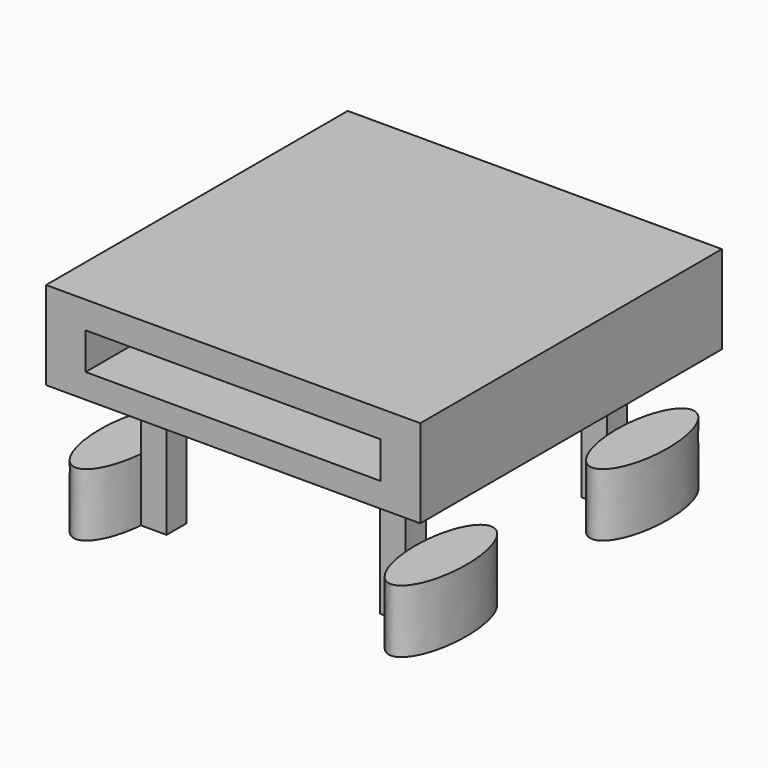
from build123d import *

# Parameters (mm, degrees)
F1_DEPTH  = 12.7
F2_DEPTH  = 25.4
F3_W      = 75.4542723298
F3_H      = 76.0345155845
F4_DEPTH  = 5.08
F5_W      = 75.4542723298
F5_H      = 76.0345155845
F5_W_2    = 62.7542723298
F5_H_2    = 63.3345155845
F6_DEPTH  = 12.7
F7_W      = 59.5092140138
F7_H      = 7.4030607939
F8_DEPTH  = 76.2
F9_W      = 42.9946966469
F9_H      = 19.0771184862
F10_DEPTH = 76.2


with BuildPart() as f1:
    # F0 (on Top) → F1 (new body)
    with BuildSketch(Plane.XY):
        with BuildLine():
            add(Edge.make_bspline(
                [(-26.6673212629, 27.94), (-28.8665013823, 53.9696522782), (-35.7714125826, 33.37500591), (-42.676323783, 12.7803595418), (-31.75, 12.7803595418)],
                knots=[1.7734542453, 1.7734542453, 1.7734542453, 4.0283197763, 4.0283197763, 6.2831853072, 6.2831853072, 6.2831853072], degree=2, weights=[1, 0.4289802376, 1, 0.4289802376, 1]))
            add(Edge.make_bspline(
                [(-31.75, 12.7803595418), (-27.5189248367, 12.7803595418), (-26.6673212629, 22.86)],
                knots=[0, 0, 0, 1.3681384083, 1.3681384083, 1.3681384083], degree=2, weights=[1, 0.775007601, 1]))
            add(Edge.make_bspline(
                [(-26.6673212629, 22.86), (-26.4527230254, 25.4), (-26.6673212629, 27.94)],
                knots=[1.3681384083, 1.3681384083, 1.3681384083, 1.7734542453, 1.7734542453, 1.7734542453], degree=2, weights=[1, 0.9795350697, 1]))
        make_face()
    extrude(amount=F1_DEPTH)


with BuildPart() as f1b:
    # F0 (on Top) → F1, piece 2 (new body)
    with BuildSketch(Plane.XY):
        with BuildLine():
            add(Edge.make_bspline(
                [(31.7938316671, -12.7779768759), (27.5620741915, -12.7779768759), (26.7109880314, -22.8595698679)],
                knots=[0, 0, 0, 1.36829636, 1.36829636, 1.36829636], degree=2, weights=[1, 0.7749576896, 1]))
            add(Edge.make_bspline(
                [(26.7109880314, -22.8595698679), (26.4965220883, -25.4000392711), (26.7113807542, -27.9403123866)],
                knots=[1.36829636, 1.36829636, 1.36829636, 1.7736722722, 1.7736722722, 1.7736722722], degree=2, weights=[1, 0.9795290235, 1]))
            add(Edge.make_bspline(
                [(26.7113807542, -27.9403123866), (28.9125846693, -53.9651371457), (35.8156016935, -33.3715570108), (42.7186187177, -12.7779768759), (31.7938316671, -12.7779768759)],
                knots=[1.7736722722, 1.7736722722, 1.7736722722, 4.0284287897, 4.0284287897, 6.2831853072, 6.2831853072, 6.2831853072], degree=2, weights=[1, 0.4290294736, 1, 0.4290294736, 1]))
        make_face()
    extrude(amount=F1_DEPTH)


with BuildPart() as f1c:
    # F0 (on Top) → F1, piece 3 (new body)
    with BuildSketch(Plane.XY):
        with BuildLine():
            add(Edge.make_bspline(
                [(31.75, 12.8016), (42.6585799166, 12.8016), (35.7663465411, 33.3598915369), (28.8741131655, 53.9181830739), (26.6748026985, 27.94)],
                knots=[0, 0, 0, 2.2546923099, 2.2546923099, 4.5093846197, 4.5093846197, 4.5093846197], degree=2, weights=[1, 0.4290584725, 1, 0.4290584725, 1]))
            add(Edge.make_bspline(
                [(26.6748026985, 27.94), (26.4597665441, 25.4), (26.6748026985, 22.86)],
                knots=[4.5093846197, 4.5093846197, 4.5093846197, 4.915393341, 4.915393341, 4.915393341], degree=2, weights=[1, 0.9794652813, 1]))
            add(Edge.make_bspline(
                [(26.6748026985, 22.86), (27.5263458699, 12.8016), (31.75, 12.8016)],
                knots=[4.915393341, 4.915393341, 4.915393341, 6.2831853072, 6.2831853072, 6.2831853072], degree=2, weights=[1, 0.7751170567, 1]))
        make_face()
    extrude(amount=F1_DEPTH)


with BuildPart() as f1d:
    # F0 (on Top) → F1, piece 4 (new body)
    with BuildSketch(Plane.XY):
        with BuildLine():
            add(Edge.make_bspline(
                [(-26.6748525876, -27.940589218), (-26.4597237971, -25.4001093108), (-26.6748348282, -22.8596205137)],
                knots=[1.3677442161, 1.3677442161, 1.3677442161, 1.7738314409, 1.7738314409, 1.7738314409], degree=2, weights=[1, 0.9794573669, 1]))
            add(Edge.make_bspline(
                [(-26.6748348282, -22.8596205137), (-28.8744302457, 3.1178827579), (-35.7663968812, -17.440258621), (-42.6583635168, -37.9984), (-31.75, -37.9984)],
                knots=[1.7738314409, 1.7738314409, 1.7738314409, 4.028508374, 4.028508374, 6.2831853072, 6.2831853072, 6.2831853072], degree=2, weights=[1, 0.4290654172, 1, 0.4290654172, 1]))
            add(Edge.make_bspline(
                [(-31.75, -37.9984), (-27.5265517738, -37.9984), (-26.6748525876, -27.940589218)],
                knots=[0, 0, 0, 1.3677442161, 1.3677442161, 1.3677442161], degree=2, weights=[1, 0.7751321412, 1]))
        make_face()
    extrude(amount=F1_DEPTH)


with BuildPart() as f2:
    # F0 (on Top) → F2 (new body)
    with BuildSketch(Plane.XY):
        with BuildLine():
            add(Edge.make_bspline(
                [(-26.6673212629, 22.86), (-26.4527230254, 25.4), (-26.6673212629, 27.94)],
                knots=[1.3681384083, 1.3681384083, 1.3681384083, 1.7734542453, 1.7734542453, 1.7734542453], degree=2, weights=[1, 0.9795350697, 1]))
            Line((-26.6673212629, 22.86), (-20.3471054377, 22.86))
            Line((-20.3471054377, 22.86), (-20.3471054377, -22.8596810407))
            Line((-20.3471054377, -22.8596810407), (-26.6641747104, -22.8596810407))
            Line((-26.6641747104, -22.8596810407), (-26.6748348282, -22.8596205137))
            add(Edge.make_bspline(
                [(-26.6748525876, -27.940589218), (-26.4597237971, -25.4001093108), (-26.6748348282, -22.8596205137)],
                knots=[1.3677442161, 1.3677442161, 1.3677442161, 1.7738314409, 1.7738314409, 1.7738314409], degree=2, weights=[1, 0.9794573669, 1]))
            Line((-26.6748525876, -27.940589218), (-26.6674692391, -27.9405932133))
            Line((-26.6674692391, -27.9405932133), (26.6746547223, -27.9405932133))
            Line((26.6746547223, -27.9405932133), (26.7113807542, -27.9403123866))
            add(Edge.make_bspline(
                [(26.7109880314, -22.8595698679), (26.4965220883, -25.4000392711), (26.7113807542, -27.9403123866)],
                knots=[1.36829636, 1.36829636, 1.36829636, 1.7736722722, 1.7736722722, 1.7736722722], degree=2, weights=[1, 0.9795290235, 1]))
            Line((26.7109880314, -22.8595698679), (26.677949251, -22.8596810407))
            Line((26.677949251, -22.8596810407), (20.3909371048, -22.8596810407))
            Line((20.3909371048, -22.8596810407), (20.3909371048, 22.86))
            Line((20.3909371048, 22.86), (26.6748026985, 22.86))
            add(Edge.make_bspline(
                [(26.6748026985, 27.94), (26.4597665441, 25.4), (26.6748026985, 22.86)],
                knots=[4.5093846197, 4.5093846197, 4.5093846197, 4.915393341, 4.915393341, 4.915393341], degree=2, weights=[1, 0.9794652813, 1]))
            Line((26.6748026985, 27.94), (-26.6673212629, 27.94))
        make_face()
    extrude(amount=F2_DEPTH)

    # F3 (on face) → F4 (join)
    with BuildSketch(Plane.XY.offset(25.4)):
        Rectangle(F3_W, F3_H)
    extrude(amount=F4_DEPTH)

    # F5 (on face) → F6 (join)
    with BuildSketch(Plane.XY.offset(30.48)):
        Rectangle(F5_W, F5_H)
        Rectangle(F5_W_2, F5_H_2, mode=Mode.SUBTRACT)
        Rectangle(F5_W_2, F5_H_2)
    extrude(amount=F6_DEPTH)

    # F7 (on face) → F8 (cut)
    with BuildSketch(Plane.XZ.offset(38.0172577923)):
        with Locations((0, 34.025605768)):
            Rectangle(F7_W, F7_H)
    extrude(amount=-F8_DEPTH, mode=Mode.SUBTRACT)

    # F9 (on face) → F10 (cut)
    with BuildSketch(Plane.XZ.offset(27.9405932133)):
        with Locations((0, 9.5385592431)):
            Rectangle(F9_W, F9_H)
    extrude(amount=-F10_DEPTH, mode=Mode.SUBTRACT)


solid = Compound([f1.part, f1b.part, f1c.part, f1d.part, f2.part])
